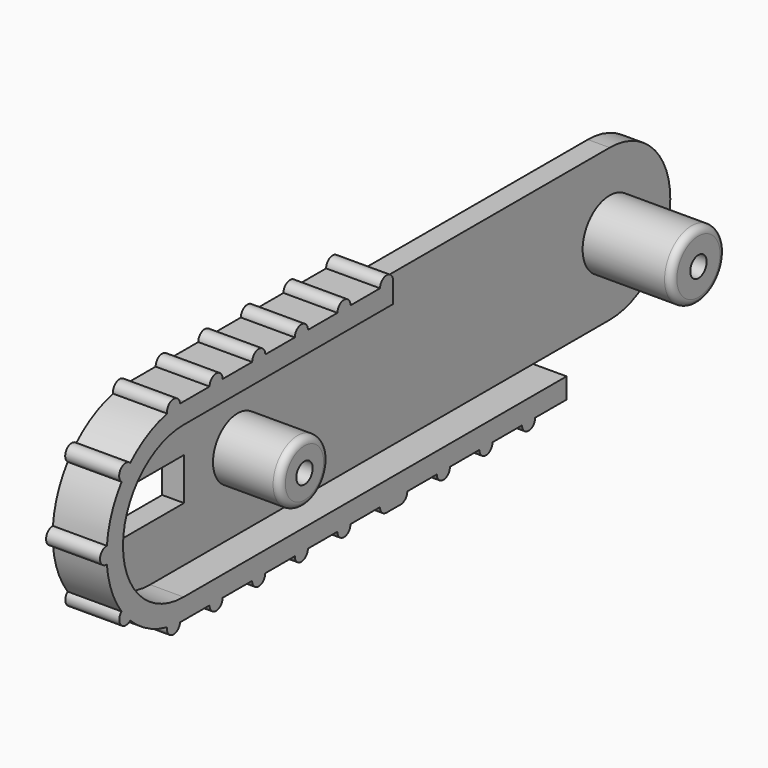
from build123d import *

# Parameters (mm, degrees)
PAD122_DEPTH                      = 1.6
PAD123_DEPTH                      = 4.05
POCKET098_DEPTH                   = 0.1
SKETCH216_R                       = 0.75
SKETCH216_W                       = 6
SKETCH216_H                       = 3
POCKET099_DEPTH                   = 1.6
PAD124_DEPTH                      = 3.95
SKETCH218_R                       = 2.25
PAD125_DEPTH                      = 4.9
SKETCH219_R                       = 0.75
POCKET100_DEPTH                   = 4.9
SKETCH220_R                       = 2.475
PAD126_DEPTH                      = 6.5
SKETCH221_R                       = 0.75
POCKET101_DEPTH                   = 6.5
FILLET044_R                       = 0.5
SKETCH222_R                       = 0.95
PAD127_DEPTH                      = 2.2
FILLET045_R                       = 0.2
SKETCH356_W                       = 6.2
SKETCH356_H                       = 3.1
POCKET172_DEPTH                   = 5
BODY018_ROLL_ANGLE                = -90
BODY018_PITCH_ANGLE               = 0.040452
BODY018_PLACEMENT_ANGLE           = 90
PART_MIRRORING002_PLACEMENT_ANGLE = 180


with BuildPart() as right_inner_leg001:
    # Sketch214 → Pad122 (new body)
    with BuildSketch(Plane.XY):
        with BuildLine():
            Line((0, 5.55), (42.05, 5.55))
            ThreePointArc((42.049962, -5.55), (47.599981, -1.9e-05), (42.05, 5.55))
            Line((42.049962, -5.55), (0, -5.55))
            ThreePointArc((0, 5.55), (-5.55, 0), (0, -5.55))
        make_face()
    extrude(amount=PAD122_DEPTH)

    # Sketch215 (on Face5 of Pad122) → Pad123 (join)
    with BuildSketch(Plane(origin=(0, 0, 0), x_dir=(1, 0, 0), z_dir=(0, 0, -1))):
        with BuildLine():
            Line((19.17, 5.55), (0, 5.55))
            ThreePointArc((0, 5.55), (-5.55, 0), (0, -5.55))
            Line((0, -5.55), (35.05, -5.55))
            Line((35.05, -5.55), (35.05, -7.05))
            Line((0, -7.05), (35.05, -7.05))
            ThreePointArc((0, 7.05), (-7.05, 0), (0, -7.05))
            Line((19.17, 7.05), (0, 7.05))
            Line((19.17, 5.55), (19.17, 7.05))
        make_face()
    extrude(amount=-PAD123_DEPTH)

    # Sketch215 (on Face5 of Pad122) → Pocket098 (cut)
    with BuildSketch(Plane(origin=(0, 0, 0), x_dir=(1, 0, 0), z_dir=(0, 0, -1))):
        with BuildLine():
            Line((19.17, 5.55), (0, 5.55))
            ThreePointArc((0, 5.55), (-5.55, 0), (0, -5.55))
            Line((0, -5.55), (35.05, -5.55))
            Line((35.05, -5.55), (35.05, -7.05))
            Line((0, -7.05), (35.05, -7.05))
            ThreePointArc((0, 7.05), (-7.05, 0), (0, -7.05))
            Line((19.17, 7.05), (0, 7.05))
            Line((19.17, 5.55), (19.17, 7.05))
        make_face()
    extrude(amount=-POCKET098_DEPTH, mode=Mode.SUBTRACT)

    # Sketch216 (on Face1 of Pocket098) → Pocket099 (cut)
    with BuildSketch(Plane(origin=(0, 0, 0), x_dir=(1, 0, 0), z_dir=(0, 0, -1))):
        with Locations((8, 0)):
            Circle(SKETCH216_R)
        Rectangle(SKETCH216_W, SKETCH216_H)
    extrude(amount=-POCKET099_DEPTH, mode=Mode.SUBTRACT)

    # Sketch217 (on Face11 of Pocket099) → Pad124 (join)
    with BuildSketch(Plane(origin=(0, 0, 0.1), x_dir=(1, 0, 0), z_dir=(0, 0, -1))):
        with BuildLine():
            ThreePointArc((19.17, 7.05), (18.57, 7.65), (17.97, 7.05))
            Line((19.17, 7.05), (17.97, 7.05))
        make_face()
        with BuildLine():
            ThreePointArc((15.27, 7.05), (14.67, 7.65), (14.07, 7.05))
            Line((15.27, 7.05), (14.07, 7.05))
        make_face()
        with BuildLine():
            ThreePointArc((11.37, 7.05), (10.77, 7.65), (10.17, 7.05))
            Line((11.37, 7.05), (10.17, 7.05))
        make_face()
        with BuildLine():
            ThreePointArc((7.47, 7.05), (6.87, 7.65), (6.27, 7.05))
            Line((7.47, 7.05), (6.27, 7.05))
        make_face()
        with BuildLine():
            ThreePointArc((3.57, 7.05), (2.97, 7.65), (2.37, 7.05))
            Line((3.57, 7.05), (2.37, 7.05))
        make_face()
        with BuildLine():
            ThreePointArc((-0.33, 7.042272), (-1.006549, 7.583492), (-1.51849, 6.884525))
            Line((-0.33, 7.042272), (-1.51849, 6.884525))
        make_face()
        with BuildLine():
            ThreePointArc((-4.890151, 5.078279), (-5.755669, 5.039323), (-5.679917, 4.176247))
            Line((-4.890151, 5.078279), (-5.679917, 4.176247))
        make_face()
        with BuildLine():
            ThreePointArc((-7.024468, 0.599457), (-7.65, 0), (-7.024468, -0.599457))
            Line((-7.024468, 0.599457), (-7.024468, -0.599457))
        make_face()
        with BuildLine():
            ThreePointArc((-5.677552, -4.179462), (-5.733191, -5.026164), (-4.886489, -5.081803))
            Line((-4.886489, -5.081803), (-5.677552, -4.179462))
        make_face()
        with BuildLine():
            ThreePointArc((-1.513526, -6.885618), (-1.001082, -7.584216), (-0.324923, -7.042508))
            Line((-0.324923, -7.042508), (-1.513526, -6.885618))
        make_face()
        with BuildLine():
            ThreePointArc((2.375077, -7.05), (2.975077, -7.65), (3.575077, -7.05))
            Line((3.575077, -7.05), (2.375077, -7.05))
        make_face()
        with BuildLine():
            ThreePointArc((6.275077, -7.05), (6.875077, -7.65), (7.475077, -7.05))
            Line((7.475077, -7.05), (6.275077, -7.05))
        make_face()
        with BuildLine():
            ThreePointArc((10.175077, -7.05), (10.775077, -7.65), (11.375077, -7.05))
            Line((11.375077, -7.05), (10.175077, -7.05))
        make_face()
        with BuildLine():
            ThreePointArc((14.075077, -7.05), (14.675077, -7.65), (15.275077, -7.05))
            Line((15.275077, -7.05), (14.075077, -7.05))
        make_face()
        with BuildLine():
            ThreePointArc((23.175077, -7.05), (23.775077, -7.65), (24.375077, -7.05))
            Line((24.375077, -7.05), (23.175077, -7.05))
        make_face()
        with BuildLine():
            ThreePointArc((27.075077, -7.05), (27.675077, -7.65), (28.275077, -7.05))
            Line((28.275077, -7.05), (27.075077, -7.05))
        make_face()
        with BuildLine():
            ThreePointArc((30.975077, -7.05), (31.575077, -7.65), (32.175077, -7.05))
            Line((32.175077, -7.05), (30.975077, -7.05))
        make_face()
        with BuildLine():
            ThreePointArc((17.975077, -7.05), (18.150813, -7.474264), (18.575077, -7.65))
            Line((19.875077, -7.65), (18.575077, -7.65))
            ThreePointArc((19.875077, -7.65), (20.299341, -7.474264), (20.475077, -7.05))
            Line((20.475077, -7.05), (17.975077, -7.05))
        make_face()
    extrude(amount=-PAD124_DEPTH)

    # Sketch218 (on Face12 of Pad124) → Pad125 (join)
    with BuildSketch(Plane.XY.offset(1.6)):
        with Locations((8, 0)):
            Circle(SKETCH218_R)
    extrude(amount=PAD125_DEPTH)

    # Sketch219 (on Face61 of Pad125) → Pocket100 (cut)
    with BuildSketch(Plane.XY.offset(6.5)):
        with Locations((8, 0)):
            Circle(SKETCH219_R)
    extrude(amount=-POCKET100_DEPTH, mode=Mode.SUBTRACT)

    # Sketch220 (on Face12 of Pocket100) → Pad126 (join)
    with BuildSketch(Plane.XY.offset(1.6)):
        with Locations((42.049981, 0)):
            Circle(SKETCH220_R)
    extrude(amount=PAD126_DEPTH)

    # Sketch221 (on Face62 of Pad126) → Pocket101 (cut)
    with BuildSketch(Plane.XY.offset(8.1)):
        with Locations((42.049981, 0)):
            Circle(SKETCH221_R)
    extrude(amount=-POCKET101_DEPTH, mode=Mode.SUBTRACT)

    # Fillet044
    fillet044_edges = [right_inner_leg001.edges().sort_by_distance(p)[0] for p in [
        (39.574981, 0, 8.1),
        (5.75, 0, 6.5),
    ]]
    fillet(fillet044_edges, radius=FILLET044_R)

    # Sketch222 (on Face5 of Fillet044) → Pad127 (join)
    with BuildSketch(Plane(origin=(0, 0, 0), x_dir=(1, 0, 0), z_dir=(0, 0, -1))):
        with Locations((38.899981, 2.2)):
            Circle(SKETCH222_R)
    extrude(amount=PAD127_DEPTH)

    # Fillet045
    fillet045_edges = [right_inner_leg001.edges().sort_by_distance(p)[0] for p in [
        (37.949981, -2.2, -2.2),
    ]]
    fillet(fillet045_edges, radius=FILLET045_R)

    # Sketch356 (on Face16 of Fillet045) → Pocket172 (cut)
    with BuildSketch(Plane.XY.offset(1.6)):
        Rectangle(SKETCH356_W, SKETCH356_H)
    extrude(amount=-POCKET172_DEPTH, mode=Mode.SUBTRACT)


with BuildPart() as right_inner_leg001_1:
    # Body018 roll: moved
    add(right_inner_leg001.part.rotate(Axis((0, 0, 0), (1, 0, 0)), BODY018_ROLL_ANGLE))


with BuildPart() as right_inner_leg001_2:
    # Body018 pitch: moved
    add(right_inner_leg001_1.part.rotate(Axis((0, 0, 0), (0, 1, 0)), BODY018_PITCH_ANGLE))


with BuildPart() as right_inner_leg001_3:
    # Body018 placement: moved
    add(right_inner_leg001_2.part.moved(Location((-10.89, -44.504589, -8.889998))).rotate(Axis((-10.89, -44.504589, -8.889998), (0, 0, 1)), BODY018_PLACEMENT_ANGLE))


with BuildPart() as left_inner_leg:
    # Part__Mirroring002: instance of Right_Inner_Leg001
    add(right_inner_leg001_3.part.mirror(Plane(origin=(0, 0, 0), x_dir=(0, 1, 0), z_dir=(0, 0, 1))))


with BuildPart() as left_inner_leg_1:
    # Part__Mirroring002 placement: moved
    add(left_inner_leg.part.moved(Location((37.71, -6.5, 2.5))).rotate(Axis((37.71, -6.5, 2.5), (0, -1, 0)), PART_MIRRORING002_PLACEMENT_ANGLE))


solid = left_inner_leg_1.part
